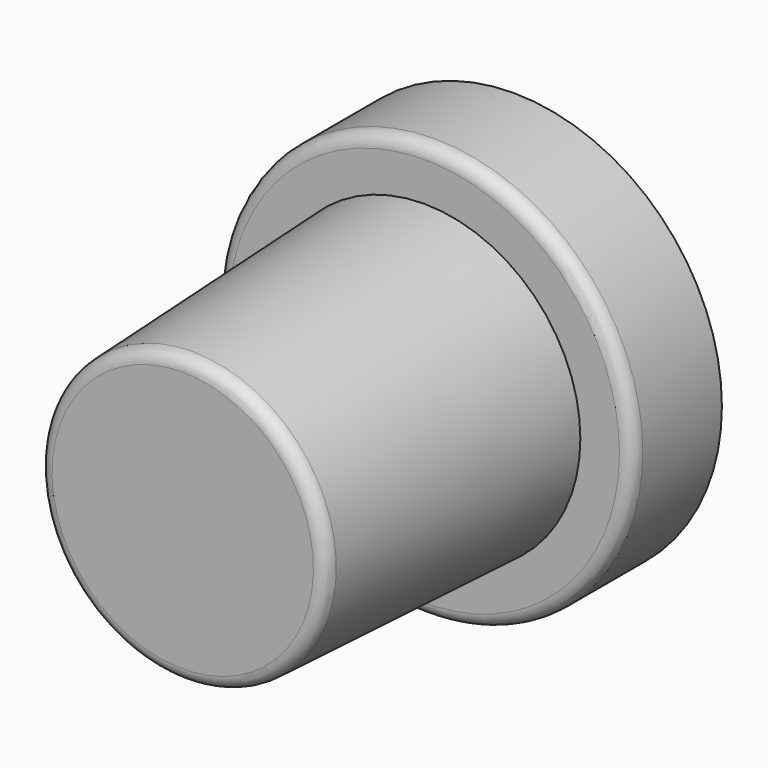
from build123d import *

# Parameters (mm, degrees)
F0_R     = 8
F0_R_2   = 6.75
F0_R_3   = 5.515498
F1_DEPTH = 4.3
F4_R     = 0.5


with BuildPart() as f1:
    # F0 (on Front) → F1 (new body)
    with BuildSketch(Plane.XZ):
        Circle(F0_R)
        Circle(F0_R_2, mode=Mode.SUBTRACT)
        Circle(F0_R_2)
        Circle(F0_R_3, mode=Mode.SUBTRACT)
        Circle(F0_R_3)
    extrude(amount=F1_DEPTH)

    # F2 (on Right) → F3 (revolve)
    with BuildSketch(Plane.YZ):
        Polygon((-15.9, 0), (0, 0), (0, 6), (-4.3, 6), (-15.9, 5.5), align=None)
    revolve(axis=Axis((0, -7.95, 0), (0, 1, 0)))

    # F4
    f4_edges = [f1.edges().sort_by_distance(p)[0] for p in [
        (0, -15.9, -5.5),
        (-8, -4.3, 0),
    ]]
    fillet(f4_edges, radius=F4_R)


solid = f1.part
